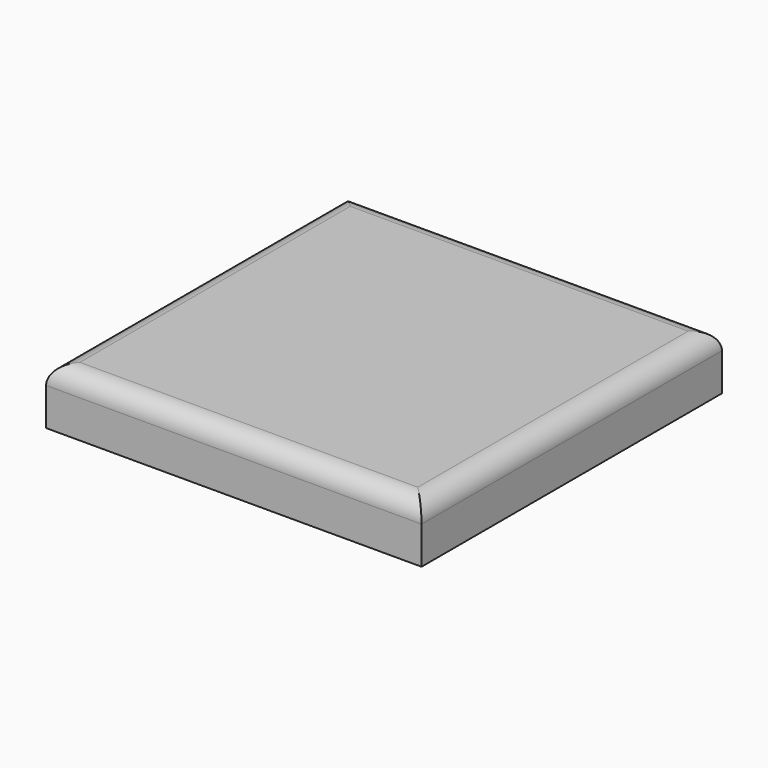
from build123d import *

# Parameters (mm, degrees)
SKETCH_W  = 20
SKETCH_H  = 20
PAD_DEPTH = 3
FILLET_R  = 1


with BuildPart() as part:
    # Sketch → Pad (new body)
    with BuildSketch(Plane.XY):
        Rectangle(SKETCH_W, SKETCH_H)
    extrude(amount=PAD_DEPTH)

    # Fillet
    fillet_edges = [part.edges().sort_by_distance(p)[0] for p in [
        (10, 0, 3),
        (0, -10, 3),
        (-10, 0, 3),
        (0, 10, 3),
    ]]
    fillet(fillet_edges, radius=FILLET_R)


solid = part.part
